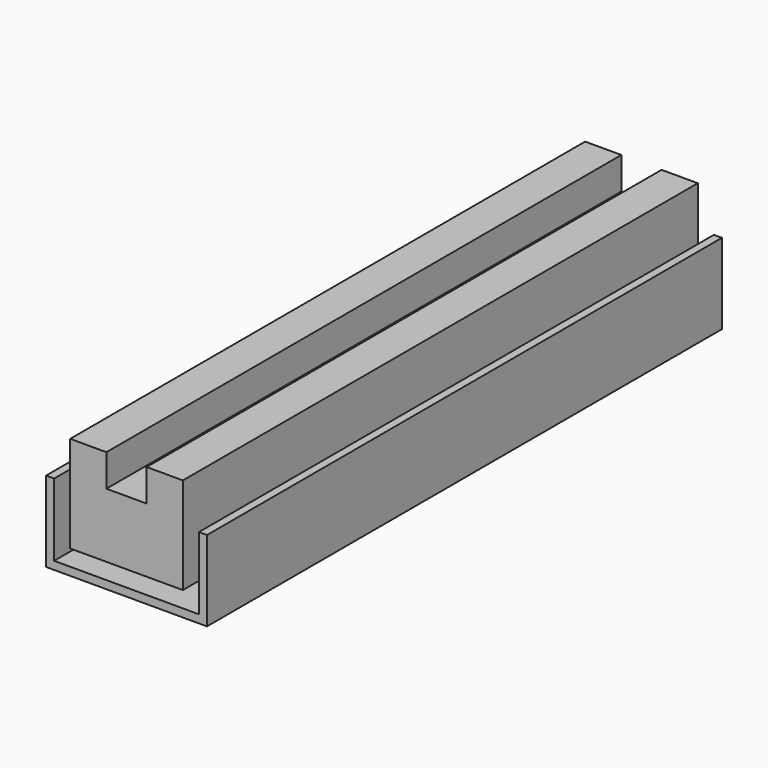
from build123d import *

# Parameters (mm, degrees)
F1_DEPTH = 200


with BuildPart() as f1:
    # F0 (on Front) → F1 (new body, symmetric)
    with BuildSketch(Plane.XZ):
        Polygon((60, -25), (60, 25), (55, 25), (55, -20), (-35, -20), (-35, 25), (-40, 25), (-40, -25), align=None)
        Polygon((-25, 50), (-25, 25), (-25, -10), (45, -10), (45, 25), (45, 50), (22.5, 50), (22.5, 30), (-2.5, 30), (-2.5, 50), align=None)
    extrude(amount=F1_DEPTH, both=True)


solid = f1.part
